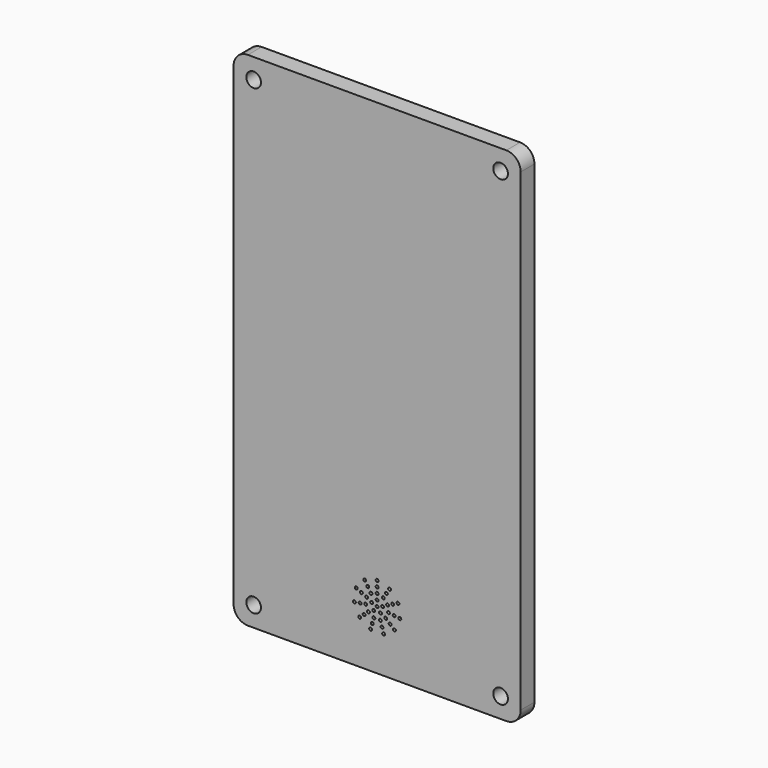
from build123d import *

# Parameters (mm, degrees)
F0_W     = 100
F0_H     = 175
F0_R     = 2.55
F1_DEPTH = 6
F2_R     = 5
F3_R     = 0.5
F4_DEPTH = 25


with BuildPart() as f1:
    # F0 (on Front) → F1 (new body)
    with BuildSketch(Plane.XZ):
        Rectangle(F0_W, F0_H)
        with Locations((-43, -80.5)):
            Circle(F0_R, mode=Mode.SUBTRACT)
        with Locations((43, -80.5)):
            Circle(F0_R, mode=Mode.SUBTRACT)
        with Locations((-43, 80.5)):
            Circle(F0_R, mode=Mode.SUBTRACT)
        with Locations((43, 80.5)):
            Circle(F0_R, mode=Mode.SUBTRACT)
    extrude(amount=F1_DEPTH)

    # F2
    f2_edges = [f1.edges().sort_by_distance(p)[0] for p in [
        (-50, -3, 87.5),
        (-50, -3, -87.5),
        (50, -3, 87.5),
        (50, -3, -87.5),
    ]]
    fillet(f2_edges, radius=F2_R)

    # F3 (on face) → F4 (cut)
    with BuildSketch(Plane.XZ.offset(6)):
        with Locations((0, -67)):
            Circle(F3_R)
        with Locations((0, -65)):
            Circle(F3_R)
        with Locations((0, -63)):
            Circle(F3_R)
        with Locations((0, -61)):
            Circle(F3_R)
        with Locations((0, -59)):
            Circle(F3_R)
        with Locations((-1.902113, -66.381966)):
            Circle(F3_R)
        with Locations((-1.175571, -68.618034)):
            Circle(F3_R)
        with Locations((1.175571, -68.618034)):
            Circle(F3_R)
        with Locations((1.902113, -66.381966)):
            Circle(F3_R)
        with Locations((-2.162563, -63.634986)):
            Circle(F3_R)
        with Locations((-3.243845, -61.952479)):
            Circle(F3_R)
        with Locations((-4.325127, -60.269972)):
            Circle(F3_R)
        with Locations((-3.638528, -65.33834)):
            Circle(F3_R)
        with Locations((-5.457792, -64.50751)):
            Circle(F3_R)
        with Locations((-7.277056, -63.67668)):
            Circle(F3_R)
        with Locations((-3.959286, -67.569259)):
            Circle(F3_R)
        with Locations((-5.938929, -67.853889)):
            Circle(F3_R)
        with Locations((-7.918572, -68.138519)):
            Circle(F3_R)
        with Locations((-3.022998, -69.619443)):
            Circle(F3_R)
        with Locations((-4.534497, -70.929164)):
            Circle(F3_R)
        with Locations((-6.045997, -72.238886)):
            Circle(F3_R)
        with Locations((-1.12693, -70.837972)):
            Circle(F3_R)
        with Locations((-1.690395, -72.756958)):
            Circle(F3_R)
        with Locations((-2.25386, -74.675944)):
            Circle(F3_R)
        with Locations((1.12693, -70.837972)):
            Circle(F3_R)
        with Locations((1.690395, -72.756958)):
            Circle(F3_R)
        with Locations((2.25386, -74.675944)):
            Circle(F3_R)
        with Locations((3.022998, -69.619443)):
            Circle(F3_R)
        with Locations((4.534497, -70.929164)):
            Circle(F3_R)
        with Locations((6.045997, -72.238886)):
            Circle(F3_R)
        with Locations((3.959286, -67.569259)):
            Circle(F3_R)
        with Locations((5.938929, -67.853889)):
            Circle(F3_R)
        with Locations((7.918572, -68.138519)):
            Circle(F3_R)
        with Locations((3.638528, -65.33834)):
            Circle(F3_R)
        with Locations((5.457792, -64.50751)):
            Circle(F3_R)
        with Locations((7.277056, -63.67668)):
            Circle(F3_R)
        with Locations((2.162563, -63.634986)):
            Circle(F3_R)
        with Locations((3.243845, -61.952479)):
            Circle(F3_R)
        with Locations((4.325127, -60.269972)):
            Circle(F3_R)
    extrude(amount=-F4_DEPTH, mode=Mode.SUBTRACT)


solid = f1.part
